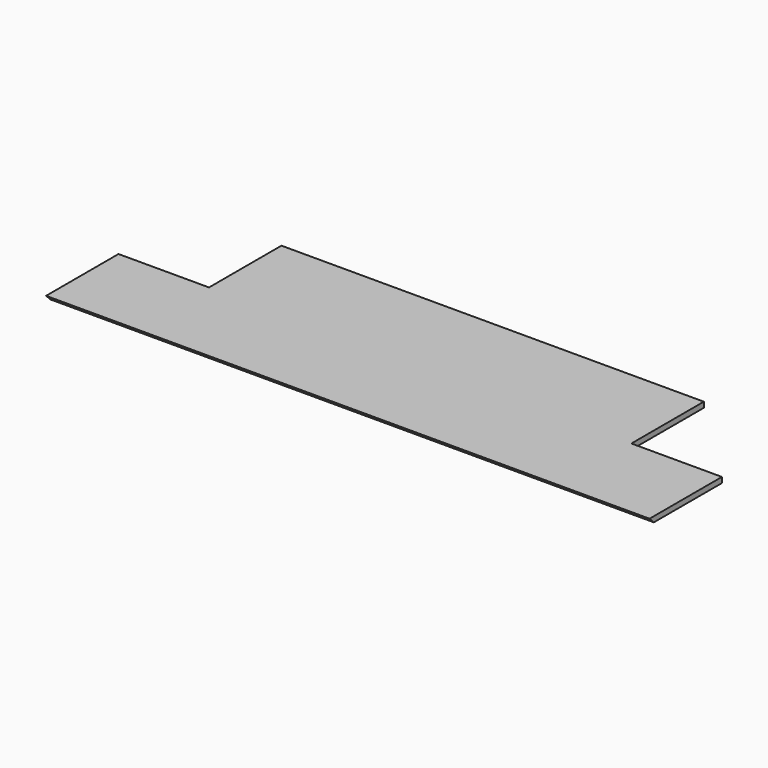
from build123d import *

# Parameters (mm, degrees)
F1_DEPTH = 18
F3_DEPTH = 2000


with BuildPart() as f1:
    # F0 (on Top) → F1 (new body)
    with BuildSketch(Plane.XY):
        Polygon((1000, -150), (1000, 150), (700, 150), (700, 450), (-700, 450), (-700, 150), (-1000, 150), (-1000, -150), align=None)
    extrude(amount=F1_DEPTH)

    # F2 (on face) → F3 (cut)
    with BuildSketch(Plane.YZ.offset(1000)):
        Polygon((-132, 0), (-150, 18), (-150, 0), align=None)
    extrude(amount=-F3_DEPTH, mode=Mode.SUBTRACT)


solid = f1.part
